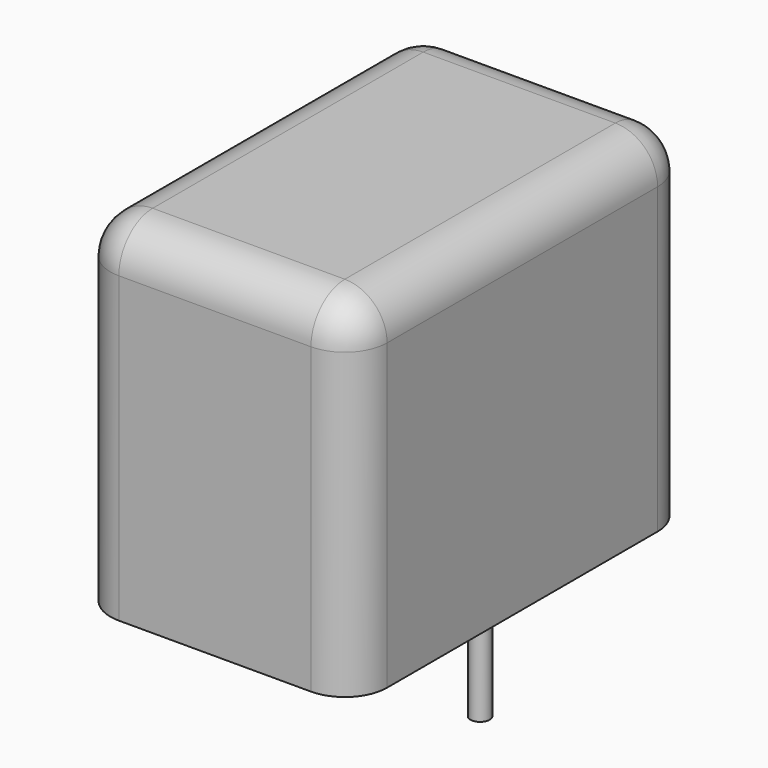
from build123d import *

# Parameters (mm, degrees)
SKETCH_W     = 7.2
SKETCH_H     = 11
PAD_DEPTH    = 9
FILLET_R     = 1.1
SKETCH001_R  = 0.25
PAD001_DEPTH = 3.2


with BuildPart() as fillet_body:
    # Sketch → Pad (new body)
    with BuildSketch(Plane.XY.offset(0.1)):
        with Locations((2.5, 0)):
            Rectangle(SKETCH_W, SKETCH_H)
    extrude(amount=PAD_DEPTH)

    # Fillet
    fillet_edges = [fillet_body.edges().sort_by_distance(p)[0] for p in [
        (-1.1, 0, 9.1),
        (-1.1, -5.5, 4.6),
        (2.5, -5.5, 9.1),
        (6.1, -5.5, 4.6),
        (6.1, 0, 9.1),
        (6.1, 5.5, 4.6),
        (2.5, 5.5, 9.1),
        (-1.1, 5.5, 4.6),
    ]]
    fillet(fillet_edges, radius=FILLET_R)


with BuildPart() as pad001:
    # Sketch001 → Pad001 (new body)
    with BuildSketch(Plane.XY.offset(0.5)):
        Circle(SKETCH001_R)
        with Locations((5, 0)):
            Circle(SKETCH001_R)
    extrude(amount=-PAD001_DEPTH)


solid = Compound([fillet_body.part, pad001.part])
